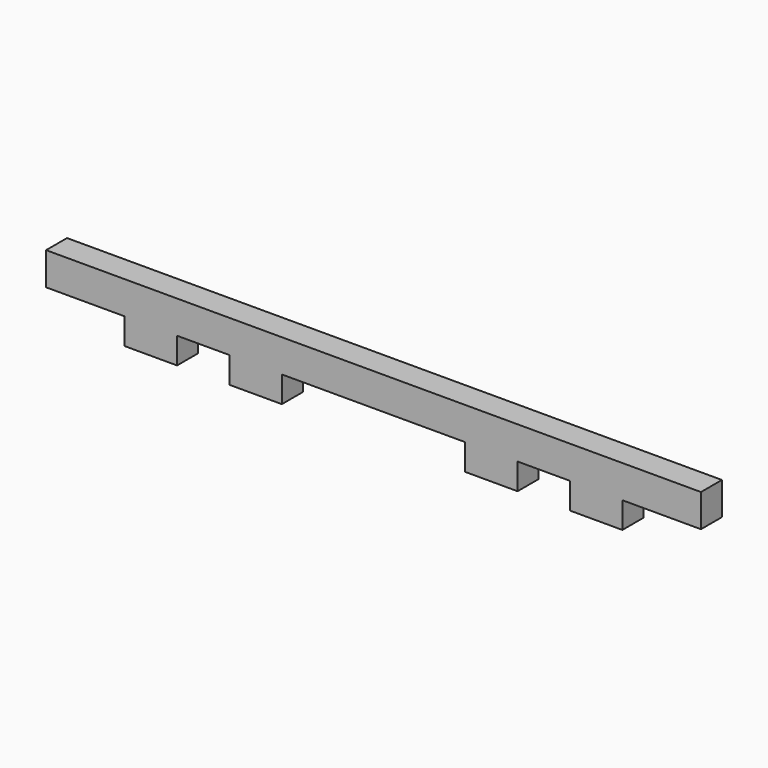
from build123d import *

# Parameters (mm, degrees)
F0_W     = 100
F0_H     = 5
F1_DEPTH = 4
F2_W     = 8
F2_H     = 4
F3_DEPTH = 4


with BuildPart() as f1:
    # F0 (on Front) → F1 (new body)
    with BuildSketch(Plane.XZ):
        with Locations((50, 2.5)):
            Rectangle(F0_W, F0_H)
    extrude(amount=F1_DEPTH)

    # F2 (on face) → F3 (join)
    with BuildSketch(Plane.XZ.offset(4)):
        with Locations((16, -2)):
            Rectangle(F2_W, F2_H)
        with Locations((32, -2)):
            Rectangle(F2_W, F2_H)
        with Locations((84, -2)):
            Rectangle(F2_W, F2_H)
        with Locations((68, -2)):
            Rectangle(F2_W, F2_H)
    extrude(amount=-F3_DEPTH)


solid = f1.part
